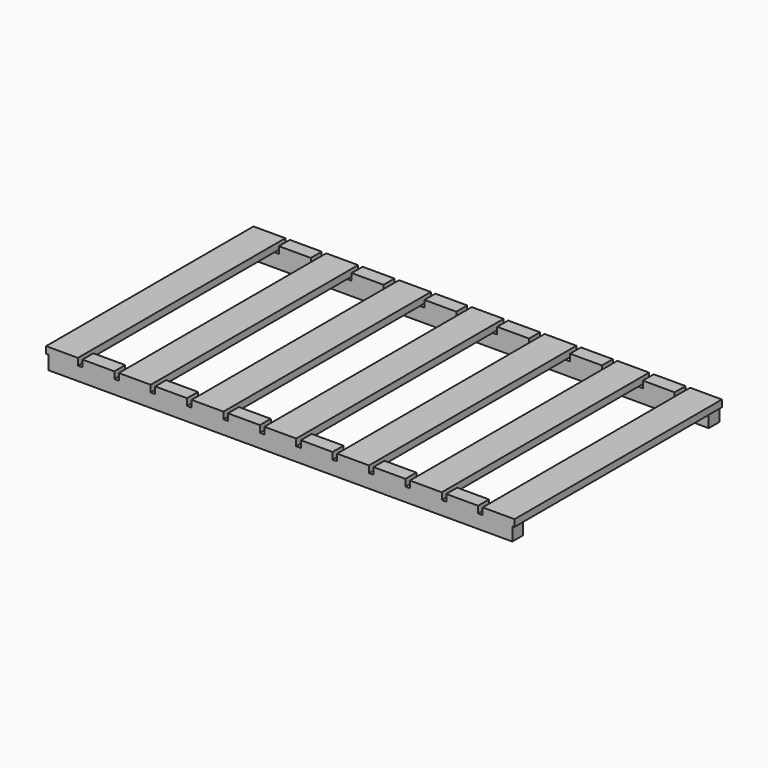
from build123d import *

# Parameters (mm, degrees)
F0_W     = 1295.4
F0_H     = 38.1
F1_DEPTH = 38.1
F2_W     = 88.9
F2_H     = 361.95
F2_H_2   = 38.1
F3_DEPTH = 19.05


with BuildPart() as f1:
    # F0 (on Top) → F1 (new body)
    with BuildSketch(Plane.XY):
        with Locations((647.7, -342.9)):
            Rectangle(F0_W, F0_H)
    extrude(amount=F1_DEPTH)

    # F2 (on face) → F3 (join)
    with BuildSketch(Plane.XY.offset(38.1)):
        with Locations((647.7, -180.975)):
            Rectangle(F2_W, F2_H)
        with Locations((850.9, -180.975)):
            Rectangle(F2_W, F2_H)
        with Locations((1054.1, -180.975)):
            Rectangle(F2_W, F2_H)
        with Locations((1257.3, -180.975)):
            Rectangle(F2_W, F2_H)
        with Locations((444.5, -180.975)):
            Rectangle(F2_W, F2_H)
        with Locations((241.3, -180.975)):
            Rectangle(F2_W, F2_H)
        with Locations((38.1, -180.975)):
            Rectangle(F2_W, F2_H)
        with Locations((749.3, -342.9)):
            Rectangle(F2_W, F2_H_2)
        with Locations((952.5, -342.9)):
            Rectangle(F2_W, F2_H_2)
        with Locations((1155.7, -342.9)):
            Rectangle(F2_W, F2_H_2)
        with Locations((546.1, -342.9)):
            Rectangle(F2_W, F2_H_2)
        with Locations((342.9, -342.9)):
            Rectangle(F2_W, F2_H_2)
        with Locations((139.7, -342.9)):
            Rectangle(F2_W, F2_H_2)
    extrude(amount=F3_DEPTH)

    # F4: F1 across plane


with BuildPart() as f1_1:
    add(f1.part)
    add(f1.part.mirror(Plane.XZ))


solid = f1_1.part
